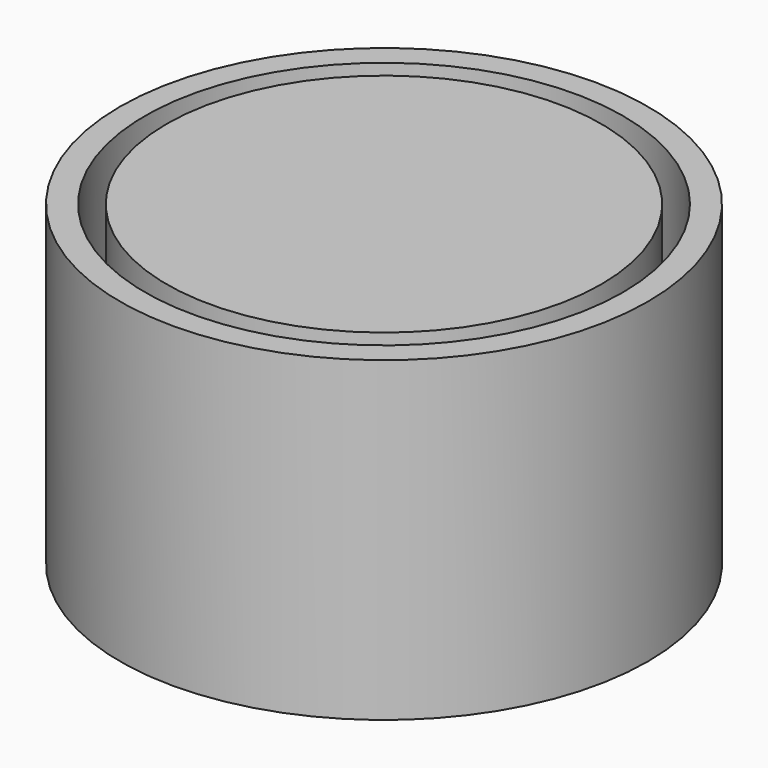
from build123d import *

# Parameters (mm, degrees)
F0_R     = 63.5
F1_DEPTH = 76.2
F2_R     = 57.483391
F2_R_2   = 52.270628
F3_DEPTH = 76.2


with BuildPart() as f1:
    # F0 (on Top) → F1 (new body)
    with BuildSketch(Plane.XY):
        Circle(F0_R)
    extrude(amount=F1_DEPTH)

    # F2 (on Top) → F3 (cut)
    with BuildSketch(Plane.XY):
        Circle(F2_R)
        Circle(F2_R_2, mode=Mode.SUBTRACT)
    extrude(amount=F3_DEPTH, mode=Mode.SUBTRACT)


solid = f1.part
